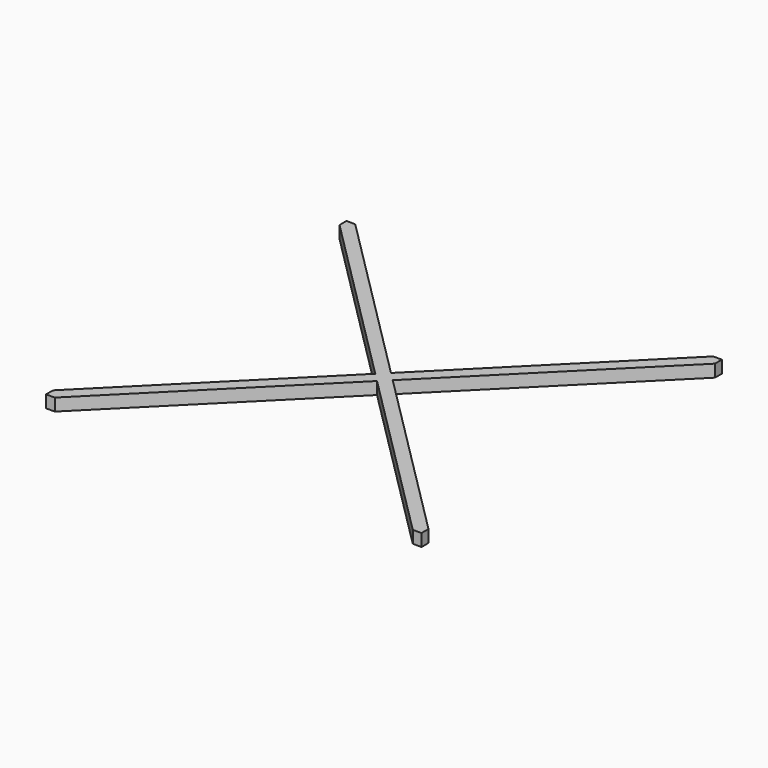
from build123d import *

# Parameters (mm, degrees)
F1_DEPTH = 0.6


with BuildPart() as f1:
    # F0 (on Top) → F1 (new body)
    with BuildSketch(Plane.XY):
        Polygon((-9.12, 9.12), (-9.12, 8.6956777771), (-0.4242059384, -0.0025), (-0.2121029692, 0.2096611115), align=None)
        Polygon((0.2121029692, -0.2146611115), (9.12, -9.125), (9.12, -8.7006777771), (0.4242059384, -0.0025), align=None)
        Polygon((-0.2121029692, 0.2096611115), (0, -0.0025), (0.2121029692, 0.2096611115), (0, 0.4218222229), align=None)
        Polygon((0, -0.4268222229), (8.6957940616, -9.125), (9.12, -9.125), (0.2121029692, -0.2146611115), align=None)
        Polygon((-8.6957940616, 9.12), (-9.12, 9.12), (-0.2121029692, 0.2096611115), (0, 0.4218222229), align=None)
        Polygon((0, -0.0025), (-0.2121029692, -0.2146611115), (0, -0.4268222229), (0.2121029692, -0.2146611115), align=None)
        Polygon((-0.4242059384, -0.0025), (-0.2121029692, -0.2146611115), (0, -0.0025), (-0.2121029692, 0.2096611115), align=None)
        Polygon((-0.2121029692, -0.2146611115), (-9.12, -9.125), (-8.6957940616, -9.125), (0, -0.4268222229), align=None)
        Polygon((9.12, 9.12), (0.2121029692, 0.2096611115), (0.4242059384, -0.0025), (9.12, 8.6956777771), align=None)
        Polygon((-9.12, -8.7006777771), (-9.12, -9.125), (-0.2121029692, -0.2146611115), (-0.4242059384, -0.0025), align=None)
        Polygon((0.2121029692, 0.2096611115), (0, -0.0025), (0.2121029692, -0.2146611115), (0.4242059384, -0.0025), align=None)
        Polygon((0, 0.4218222229), (0.2121029692, 0.2096611115), (9.12, 9.12), (8.6957940616, 9.12), align=None)
    extrude(amount=F1_DEPTH)


solid = f1.part
